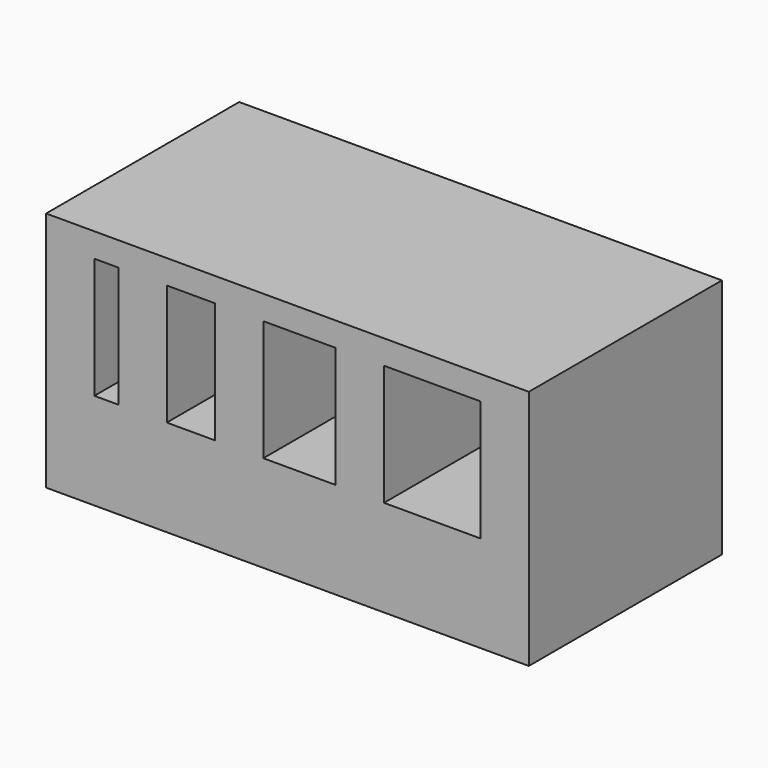
from build123d import *

# Parameters (mm, degrees)
F0_W     = 20
F0_H     = 10
F1_DEPTH = 10
F2_W     = 1
F2_H     = 5
F2_W_2   = 2
F2_W_3   = 3
F2_W_4   = 4
F3_DEPTH = 10.001


with BuildPart() as f1:
    # F0 (on Top) → F1 (new body)
    with BuildSketch(Plane.XY):
        Rectangle(F0_W, F0_H)
    extrude(amount=F1_DEPTH)

    # F2 (on face) → F3 (cut, through all)
    with BuildSketch(Plane.XZ.offset(5)):
        with Locations((-7.5, 6.5)):
            Rectangle(F2_W, F2_H)
        with Locations((-4, 6.5)):
            Rectangle(F2_W_2, F2_H)
        with Locations((0.5, 6.5)):
            Rectangle(F2_W_3, F2_H)
        with Locations((6, 6.5)):
            Rectangle(F2_W_4, F2_H)
    extrude(amount=-F3_DEPTH, mode=Mode.SUBTRACT)


solid = f1.part
